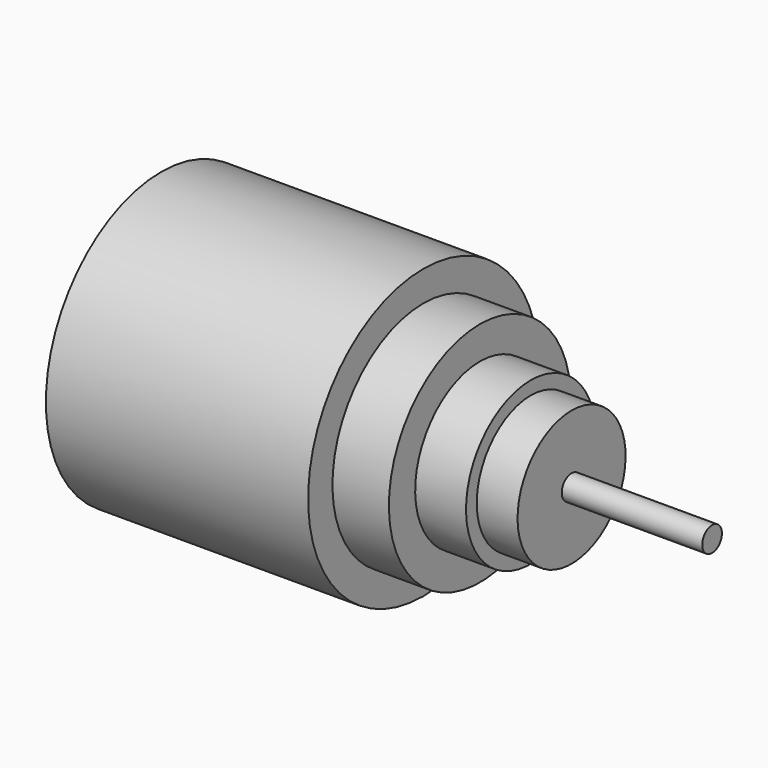
from build123d import *

# Parameters (mm, degrees)
F0_R     = 4.3303007039
F1_DEPTH = 101.6
F2_W     = 14.3698975444
F2_H     = 23.7585008144


with BuildPart() as f1:
    # F0 (on Right) → F1 (new body, symmetric)
    with BuildSketch(Plane.YZ):
        Circle(F0_R)
    extrude(amount=F1_DEPTH, both=True)

    # F2 (on Front) → F3 (revolve)
    with BuildSketch(Plane.XZ):
        Polygon((-92.3030078411, 50.7372282445), (-92.3030078411, 0), (0, 0), (0, 40.031991899), (0, 50.7372282445), align=None)
        Polygon((0, 40.031991899), (0, 0), (19.8729075491, 0), (19.8729075491, 28.4771621227), (19.8729075491, 40.031991899), align=None)
        Polygon((19.8729075491, 28.4771621227), (19.8729075491, 0), (37.7754718065, 0), (37.7754718065, 23.7585008144), (37.7754718065, 28.4771621227), align=None)
        with Locations((44.9604205787, 11.8792504072)):
            Rectangle(F2_W, F2_H)
    revolve(axis=Axis((0, 0, 0), (1, 0, 0)))


solid = f1.part
